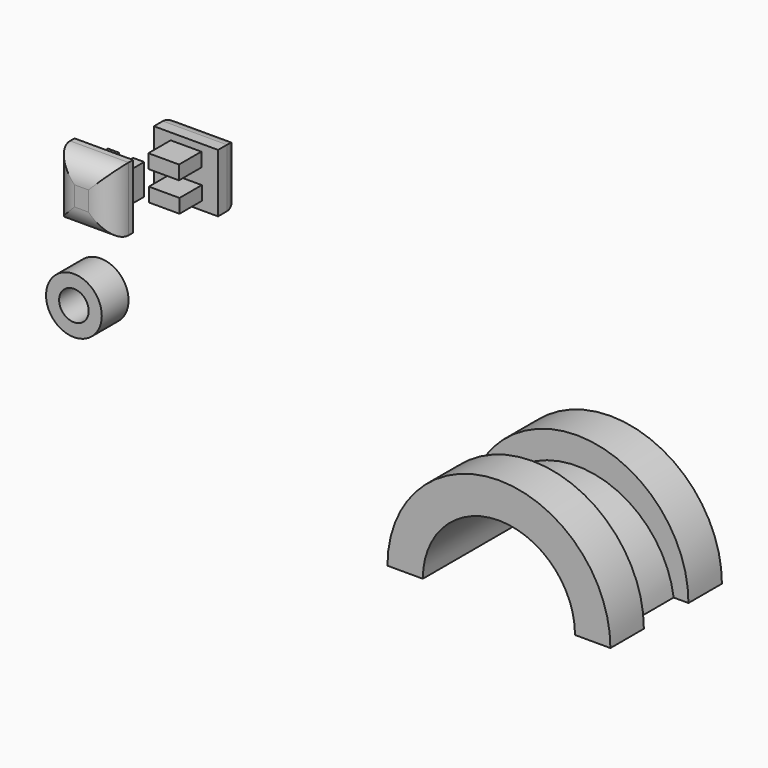
from build123d import *

# Parameters (mm, degrees)
F0_R      = 5
F0_R_2    = 2.65
F1_DEPTH  = 6
F2_W      = 2
F2_H      = 5.5
F3_DEPTH  = 5
F4_W      = 10.5
F4_H      = 11.5
F5_DEPTH  = 5
F6_R      = 4
F7_W      = 11.5
F7_H      = 10.5
F8_DEPTH  = 5
F9_W      = 5.5
F9_H      = 2.5
F10_DEPTH = 5
F11_R     = 3
F13_DEPTH = 7.5
F15_DEPTH = 10
F17_DEPTH = 7.5
F19_DEPTH = 25


with BuildPart() as f1:
    # F0 (on Front) → F1 (new body)
    with BuildSketch(Plane.XZ):
        with Locations((-46.0522696376, 41.4005257189)):
            Circle(F0_R)
        with Locations((-46.0522696376, 41.4005257189)):
            Circle(F0_R_2, mode=Mode.SUBTRACT)
    extrude(amount=F1_DEPTH)


with BuildPart() as f3:
    # F2 (on Front) → F3 (new body)
    with BuildSketch(Plane.XZ):
        with Locations((-39.2449274361, 61.4222493172)):
            Rectangle(F2_W, F2_H)
    extrude(amount=F3_DEPTH)


with BuildPart() as f3b:
    # F2 (on Front) → F3, piece 2 (new body)
    with BuildSketch(Plane.XZ):
        with Locations((-43.7449274361, 61.4222493172)):
            Rectangle(F2_W, F2_H)
    extrude(amount=F3_DEPTH)


with BuildPart() as f5:
    # F4 (on face) → F5 (new body)
    with BuildSketch(Plane.XZ.offset(5)):
        with Locations((-41.4949274361, 61.4222493172)):
            Rectangle(F4_W, F4_H)
    extrude(amount=F5_DEPTH)

    # F6
    f6_edges = [f5.edges().sort_by_distance(p)[0] for p in [
        (-41.494927, -10, 67.172249),
        (-46.744927, -10, 61.422249),
        (-41.494927, -10, 55.672249),
        (-36.244927, -10, 61.422249),
    ]]
    fillet(f6_edges, radius=F6_R)


with BuildPart() as f8:
    # F7 (on Front) → F8 (new body)
    with BuildSketch(Plane.XZ):
        with Locations((-26.7465799004, 68.466984272)):
            Rectangle(F7_W, F7_H)
    extrude(amount=F8_DEPTH)

    # F9 (on face) → F10 (join)
    with BuildSketch(Plane.XZ.offset(5)):
        with Locations((-26.7465799004, 71.216984272)):
            Rectangle(F9_W, F9_H)
        with Locations((-26.6575082093, 65.966984272)):
            Rectangle(F9_W, F9_H)
    extrude(amount=F10_DEPTH)

    # F11
    f11_edges = [f8.edges().sort_by_distance(p)[0] for p in [
        (-26.74658, 0, 73.716984),
        (-32.49658, 0, 68.466984),
        (-26.74658, 0, 63.216984),
        (-20.99658, 0, 68.466984),
    ]]
    fillet(f11_edges, radius=F11_R)


with BuildPart() as f13:
    # F12 (on Front) → F13 (new body)
    with BuildSketch(Plane.XZ):
        with BuildLine():
            ThreePointArc((45.3872331232, 51.2725864351), (59.5293687469, 45.4147220588), (65.3872331232, 31.2725864351))
            Line((65.3872331232, 31.2725864351), (65.3872331232, 51.2725864351))
            Line((65.3872331232, 51.2725864351), (45.3872331232, 51.2725864351))
        make_face()
        with BuildLine():
            ThreePointArc((25.3872331232, 31.2725864351), (31.2450974995, 45.4147220588), (45.3872331232, 51.2725864351))
            Line((45.3872331232, 51.2725864351), (25.3872331232, 51.2725864351))
            Line((25.3872331232, 51.2725864351), (25.3872331232, 31.2725864351))
        make_face()
        with BuildLine():
            ThreePointArc((31.7372331232, 31.2725864351), (35.73522556, 40.9245939983), (45.3872331232, 44.9225864351))
            Line((45.3872331232, 44.9225864351), (45.3872331232, 51.2725864351))
            ThreePointArc((45.3872331232, 51.2725864351), (31.2450974995, 45.4147220588), (25.3872331232, 31.2725864351))
            Line((25.3872331232, 31.2725864351), (31.7372331232, 31.2725864351))
        make_face()
        with BuildLine():
            ThreePointArc((45.3872331232, 44.9225864351), (55.0392406864, 40.9245939983), (59.0372331232, 31.2725864351))
            Line((59.0372331232, 31.2725864351), (65.3872331232, 31.2725864351))
            ThreePointArc((65.3872331232, 31.2725864351), (59.5293687469, 45.4147220588), (45.3872331232, 51.2725864351))
            Line((45.3872331232, 51.2725864351), (45.3872331232, 44.9225864351))
        make_face()
    extrude(amount=F13_DEPTH)

    # F14 (on face) → F15 (join)
    with BuildSketch(Plane.XZ.offset(7.5)):
        with BuildLine():
            ThreePointArc((31.7372331232, 31.2725864351), (35.73522556, 40.9245939983), (45.3872331232, 44.9225864351))
            ThreePointArc((45.3872331232, 44.9225864351), (55.0392406864, 40.9245939983), (59.0372331232, 31.2725864351))
            Line((59.0372331232, 31.2725864351), (62.7287295984, 31.2725864351))
            ThreePointArc((62.7287295984, 31.2725864351), (45.3872331232, 46.4225864351), (28.045736648, 31.2725864351))
            Line((28.045736648, 31.2725864351), (31.7372331232, 31.2725864351))
        make_face()
    extrude(amount=F15_DEPTH)

    # F16 (on face) → F17 (join)
    with BuildSketch(Plane.XZ.offset(17.5)):
        with BuildLine():
            Line((25.3872331232, 51.2790717185), (25.3872331232, 31.2725864351))
            Line((25.3872331232, 31.2725864351), (28.045736648, 31.2725864351))
            ThreePointArc((28.045736648, 31.2725864351), (45.3872331232, 46.4225864351), (62.7287295984, 31.2725864351))
            Line((62.7287295984, 31.2725864351), (65.3872331232, 31.2725864351))
            Line((65.3872331232, 31.2725864351), (65.3872331232, 51.2790717185))
            Line((65.3872331232, 51.2790717185), (25.3872331232, 51.2790717185))
        make_face()
        with BuildLine():
            ThreePointArc((62.7287295984, 31.2725864351), (45.3872331232, 46.4225864351), (28.045736648, 31.2725864351))
            Line((28.045736648, 31.2725864351), (31.7372331232, 31.2725864351))
            ThreePointArc((31.7372331232, 31.2725864351), (45.3872331232, 44.9225864351), (59.0372331232, 31.2725864351))
            Line((59.0372331232, 31.2725864351), (62.7287295984, 31.2725864351))
        make_face()
    extrude(amount=F17_DEPTH)

    # F18 (on face) → F19 (cut)
    with BuildSketch(Plane.XZ.offset(25)):
        with BuildLine():
            ThreePointArc((25.3872331232, 31.2725864351), (45.3872331232, 51.2725864351), (65.3872331232, 31.2725864351))
            Line((65.3872331232, 31.2725864351), (65.3872331232, 51.2790717185))
            Line((65.3872331232, 51.2790717185), (25.3872331232, 51.2790717185))
            Line((25.3872331232, 51.2790717185), (25.3872331232, 31.2725864351))
        make_face()
    extrude(amount=-F19_DEPTH, mode=Mode.SUBTRACT)


solid = Compound([f1.part, f3.part, f3b.part, f5.part, f8.part, f13.part])
